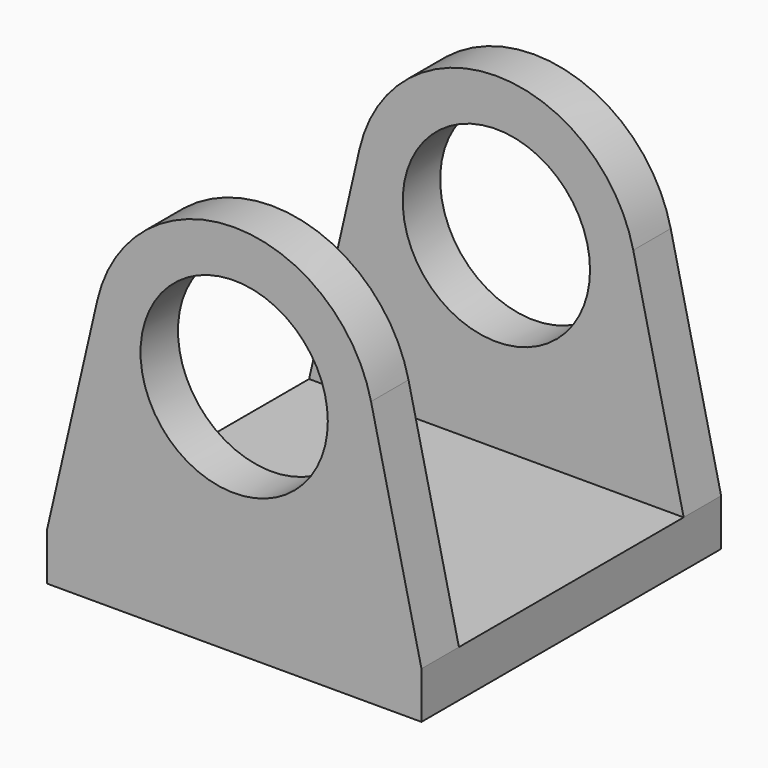
from build123d import *

# Parameters (mm, degrees)
F0_W     = 50.8
F0_H     = 6.35
F1_DEPTH = 25.4
F2_START = 19.05
F0_R     = 12.7
F2_DEPTH = 6.35


with BuildPart() as f1:
    # F0 (on Front) → F1 (new body)
    with BuildSketch(Plane.XZ):
        Rectangle(F0_W, F0_H)
    extrude(amount=F1_DEPTH)

    # F0 (on Front) → F2 (join)
    with BuildSketch(Plane.XZ.offset(F2_START)):
        with BuildLine():
            Line((-25.4, 3.175), (25.4, 3.175))
            Line((25.4, 3.175), (18.5638238149, 32.8513238149))
            ThreePointArc((18.5638238149, 32.8513238149), (18.9280657183, 30.7269359106), (19.05, 28.575))
            ThreePointArc((19.05, 28.575), (-2.1519359106, 9.6469342817), (-18.5638238149, 32.8513238149))
            Line((-18.5638238149, 32.8513238149), (-25.4, 3.175))
        make_face()
        with BuildLine():
            ThreePointArc((19.05, 28.575), (18.9280657183, 30.7269359106), (18.5638238149, 32.8513238149))
            ThreePointArc((18.5638238149, 32.8513238149), (0, 47.625), (-18.5638238149, 32.8513238149))
            ThreePointArc((-18.5638238149, 32.8513238149), (-2.1519359106, 9.6469342817), (19.05, 28.575))
        make_face()
        with Locations((0, 28.575)):
            Circle(F0_R, mode=Mode.SUBTRACT)
    extrude(amount=F2_DEPTH)

    # F3: F1 across plane


with BuildPart() as f1_1:
    add(f1.part)
    add(f1.part.mirror(Plane.XZ))


solid = f1_1.part
